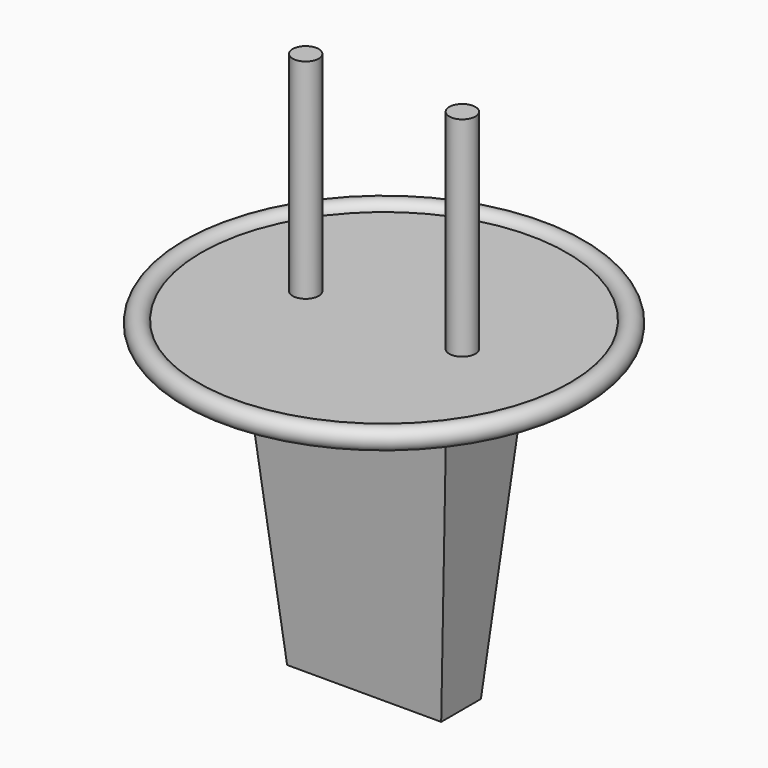
from build123d import *

# Parameters (mm, degrees)
F0_R     = 44.45
F1_DEPTH = 0.635
F3_R     = 2.54
F5_W     = 50.8
F5_H     = 25.4
F6_DEPTH = 76.2
F6_TAPER = 5
F7_R     = 3.175
F9_DEPTH = 50.8


with BuildPart() as f1:
    # F0 (on Top) → F1 (new body, symmetric)
    with BuildSketch(Plane.XY):
        Circle(F0_R)
    extrude(amount=F1_DEPTH, both=True)

    # F7 (on face) → F9 (join, through all)
    with BuildSketch(Plane.XY.offset(0.635)):
        with Locations((-19.05, 0)):
            Circle(F7_R)
        with Locations((19.05, 0)):
            Circle(F7_R)
    extrude(amount=F9_DEPTH)


with BuildPart() as f4:
    # F4: sweep along a path in F2
    with BuildLine(Plane.XY) as f4_path:
        CenterArc((0, 0), 48.26, 0, 360)
    # F3 (on Front) → F4 (sweep)
    with BuildSketch(Plane.XZ):
        with Locations((-46.8890815973, 0)):
            Circle(F3_R)
    sweep(path=f4_path.line)


with BuildPart() as f6:
    # F5 (on face) → F6 (new body)
    with BuildSketch(Plane(origin=(0, 0, -0.635), x_dir=(1, 0, 0), z_dir=(0, 0, -1))):
        Rectangle(F5_W, F5_H)
    extrude(amount=F6_DEPTH, taper=F6_TAPER)


solid = Compound([f1.part, f4.part, f6.part])
